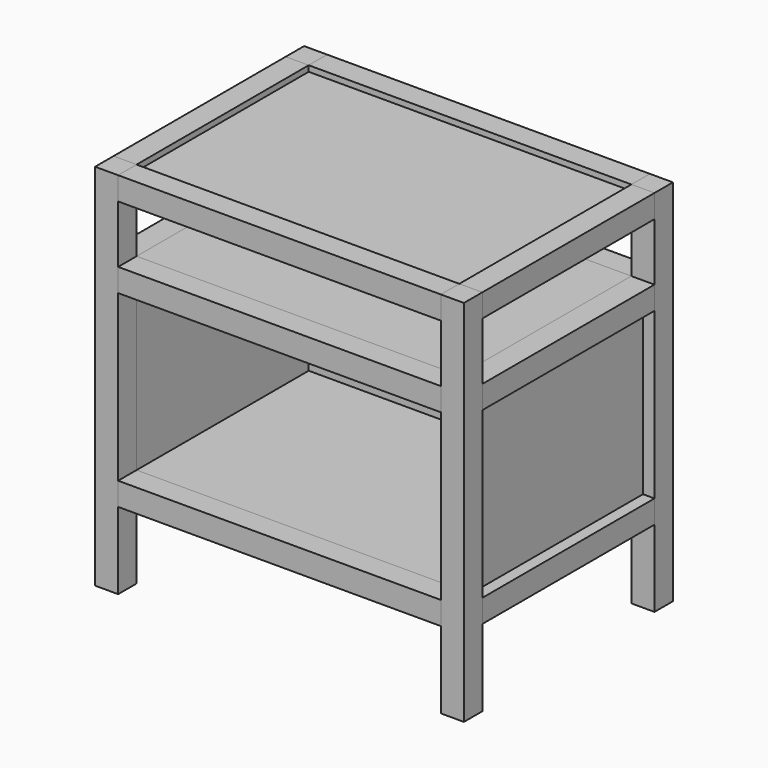
from build123d import *

# Parameters (mm, degrees)
F0_W      = 38.1
F0_H      = 38.1
F1_DEPTH  = 609.6
F2_W      = 38.1
F2_H      = 38.1
F3_DEPTH  = 533.4
F4_W      = 38.1
F4_H      = 38.1
F5_DEPTH  = 355.6
F6_W      = 355.6
F6_H      = 19.05
F7_DEPTH  = 533.4
F8_W      = 19.05
F8_H      = 355.6
F8_W_2    = 533.4
F8_H_2    = 19.05
F9_DEPTH  = 273.05
F10_W     = 355.6
F10_H     = 19.05
F11_DEPTH = 533.4
F12_W     = 355.6
F12_H     = 19.05
F13_DEPTH = 533.4


with BuildPart() as f1:
    # F0 (on Top) → F1 (new body)
    with BuildSketch(Plane.XY):
        with Locations((-285.75, -196.85)):
            Rectangle(F0_W, F0_H)
        with Locations((-285.75, 196.85)):
            Rectangle(F0_W, F0_H)
        with Locations((285.75, 196.85)):
            Rectangle(F0_W, F0_H)
        with Locations((285.75, -196.85)):
            Rectangle(F0_W, F0_H)
    extrude(amount=F1_DEPTH)


with BuildPart() as f3:
    # F2 (on face) → F3 (new body, through all)
    with BuildSketch(Plane.YZ.offset(-266.7)):
        with Locations((-196.85, 146.05)):
            Rectangle(F2_W, F2_H)
        with Locations((196.85, 146.05)):
            Rectangle(F2_W, F2_H)
        with Locations((-196.85, 590.55)):
            Rectangle(F2_W, F2_H)
        with Locations((-196.85, 457.2)):
            Rectangle(F2_W, F2_H)
        with Locations((196.85, 457.2)):
            Rectangle(F2_W, F2_H)
        with Locations((196.85, 590.55)):
            Rectangle(F2_W, F2_H)
    extrude(amount=F3_DEPTH)


with BuildPart() as f5:
    # F4 (on face) → F5 (new body, through all)
    with BuildSketch(Plane(origin=(0, -177.8, 0), x_dir=(-1, 0, 0), z_dir=(0, 1, 0))):
        with Locations((-285.75, 590.55)):
            Rectangle(F4_W, F4_H)
        with Locations((-285.75, 457.2)):
            Rectangle(F4_W, F4_H)
        with Locations((-285.75, 146.05)):
            Rectangle(F4_W, F4_H)
        with Locations((285.75, 146.05)):
            Rectangle(F4_W, F4_H)
        with Locations((285.75, 457.2)):
            Rectangle(F4_W, F4_H)
        with Locations((285.75, 590.55)):
            Rectangle(F4_W, F4_H)
    extrude(amount=F5_DEPTH)


with BuildPart() as f7:
    # F6 (on face) → F7 (new body, through all)
    with BuildSketch(Plane(origin=(266.7, 0, 0), x_dir=(0, -1, 0), z_dir=(-1, 0, 0))):
        with Locations((0, 155.575)):
            Rectangle(F6_W, F6_H)
    extrude(amount=F7_DEPTH)


with BuildPart() as f9:
    # F8 (on face) → F9 (new body, through all)
    with BuildSketch(Plane.XY.offset(165.1)):
        with Locations((276.225, 0)):
            Rectangle(F8_W, F8_H)
        with Locations((0, 187.325)):
            Rectangle(F8_W_2, F8_H_2)
        with Locations((-276.225, 0)):
            Rectangle(F8_W, F8_H)
    extrude(amount=F9_DEPTH)


with BuildPart() as f11:
    # F10 (on face) → F11 (new body, through all)
    with BuildSketch(Plane.YZ.offset(-266.7)):
        with Locations((0, 466.725)):
            Rectangle(F10_W, F10_H)
    extrude(amount=F11_DEPTH)


with BuildPart() as f13:
    # F12 (on face) → F13 (new body, through all)
    with BuildSketch(Plane.YZ.offset(-266.7)):
        with Locations((0, 590.55)):
            Rectangle(F12_W, F12_H)
    extrude(amount=F13_DEPTH)


solid = Compound([f1.part, f3.part, f5.part, f7.part, f9.part, f11.part, f13.part])
